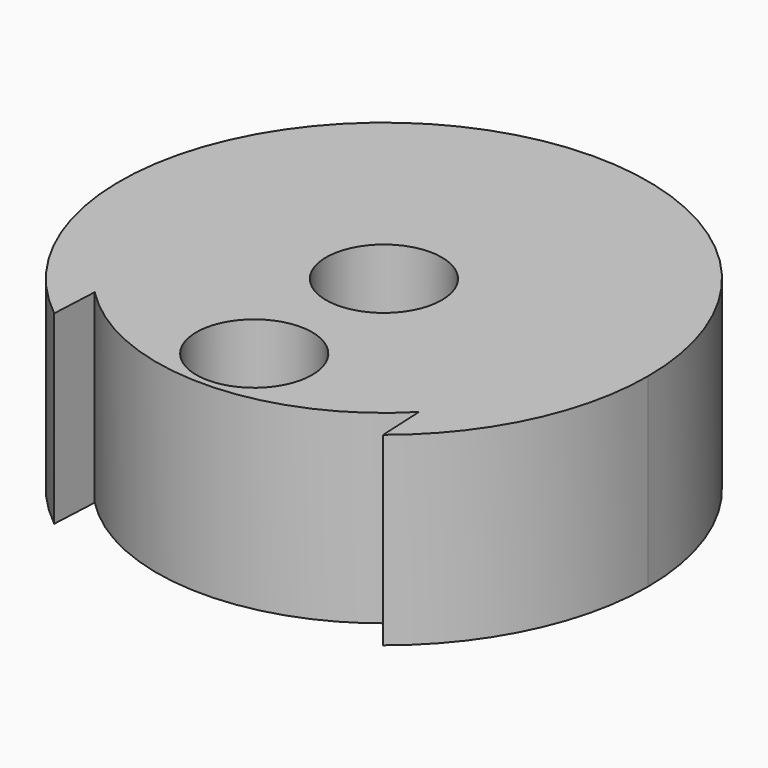
from build123d import *

# Parameters (mm, degrees)
F0_R     = 4.25
F0_R_2   = 2.5
F1_DEPTH = 8
F2_DEPTH = 8


with BuildPart() as f1:
    # F0 (on Top) → F1 (new body)
    with BuildSketch(Plane.XY):
        Circle(F0_R)
        Circle(F0_R_2, mode=Mode.SUBTRACT)
    extrude(amount=F1_DEPTH)

    # F0 (on Top) → F2 (join)
    with BuildSketch(Plane.XY):
        with BuildLine():
            ThreePointArc((9.8, 0), (-3.704052, 9.073037), (-7, -6.858571))
            ThreePointArc((-7, -6.858571), (0, -9.8), (7, -6.858571))
            ThreePointArc((7, -6.858571), (9.073037, -3.704052), (9.8, 0))
        make_face()
        with Locations((0, -7)):
            Circle(F0_R_2, mode=Mode.SUBTRACT)
        Circle(F0_R, mode=Mode.SUBTRACT)
        with BuildLine():
            ThreePointArc((7.1, -8.919081), (10.268885, -4.950758), (11.4, 0))
            ThreePointArc((11.4, 0), (-4.950758, 10.268885), (-7.1, -8.919081))
            Line((-7.1, -8.919081), (-7, -6.858571))
            ThreePointArc((-7, -6.858571), (-3.704052, 9.073037), (9.8, 0))
            ThreePointArc((9.8, 0), (9.073037, -3.704052), (7, -6.858571))
            Line((7, -6.858571), (7.1, -8.919081))
        make_face()
    extrude(amount=F2_DEPTH)


solid = f1.part
